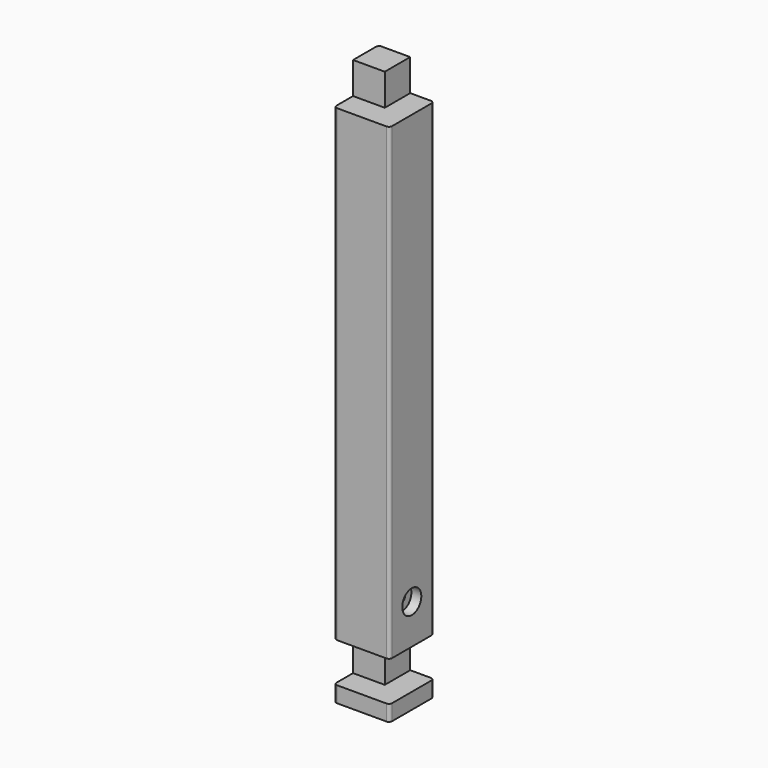
from build123d import *

# Parameters (mm, degrees)
F1_DEPTH      = 44.45
F2_R          = 5.08
F4_DEPTH      = 50.8
F5_R          = 6.35
F6_DEPTH      = 44.451
F6_DEPTH_BACK = 44.451
F7_R          = 19.05
F7_R_2        = 6.35
F8_DEPTH      = 15.875


with BuildPart() as f1:
    # F0 (on Right) → F1 (new body, symmetric)
    with BuildSketch(Plane.YZ):
        Polygon((26.359464475, -364.0086964671), (26.359464475, 524.9913035329), (-24.440535525, 524.9913035329), (-24.440535525, 474.1913035329), (-62.540535525, 474.1913035329), (-62.540535525, -275.1086964671), (-24.440535525, -275.1086964671), (-24.440535525, -338.6086964671), (-62.540535525, -338.6086964671), (-62.540535525, -364.0086964671), align=None)
    extrude(amount=F1_DEPTH, both=True)

    # F2
    f2_edges = [f1.edges().sort_by_distance(p)[0] for p in [
        (44.45, -62.540536, 99.541304),
        (44.45, -62.540536, -351.308696),
        (-44.45, -62.540536, -351.308696),
        (-44.45, -62.540536, 99.541304),
        (44.45, 26.359464, 80.491304),
        (-44.45, 26.359464, 80.491304),
    ]]
    fillet(f2_edges, radius=F2_R)

    # F3 (on Front) → F4 (cut, symmetric)
    with BuildSketch(Plane.XZ):
        Polygon((44.45, 474.1913035329), (44.45, 524.9913035329), (6.35, 524.9913035329), (6.35, 474.1913035329), (39.37, 474.1913035329), align=None)
        Polygon((44.45, -275.1086964671), (39.37, -275.1086964671), (6.35, -275.1086964671), (6.35, -338.6086964671), (39.37, -338.6086964671), (44.45, -338.6086964671), align=None)
    extrude(amount=F4_DEPTH, both=True, mode=Mode.SUBTRACT)

    # F5 (on Right) → F6 (cut, two sides)
    with BuildSketch(Plane.YZ) as f6_sk:
        with Locations((-18.090535525, -211.6086964671)):
            Circle(F5_R)
    extrude(amount=-F6_DEPTH, mode=Mode.SUBTRACT)
    extrude(f6_sk.sketch, amount=F6_DEPTH_BACK, mode=Mode.SUBTRACT)

    # F7 (on face) → F8 (cut)
    with BuildSketch(Plane.YZ.offset(44.45)):
        with Locations((-18.090535525, -211.6086964671)):
            Circle(F7_R)
        with Locations((-18.090535525, -211.6086964671)):
            Circle(F7_R_2, mode=Mode.SUBTRACT)
    extrude(amount=-F8_DEPTH, mode=Mode.SUBTRACT)


solid = f1.part
